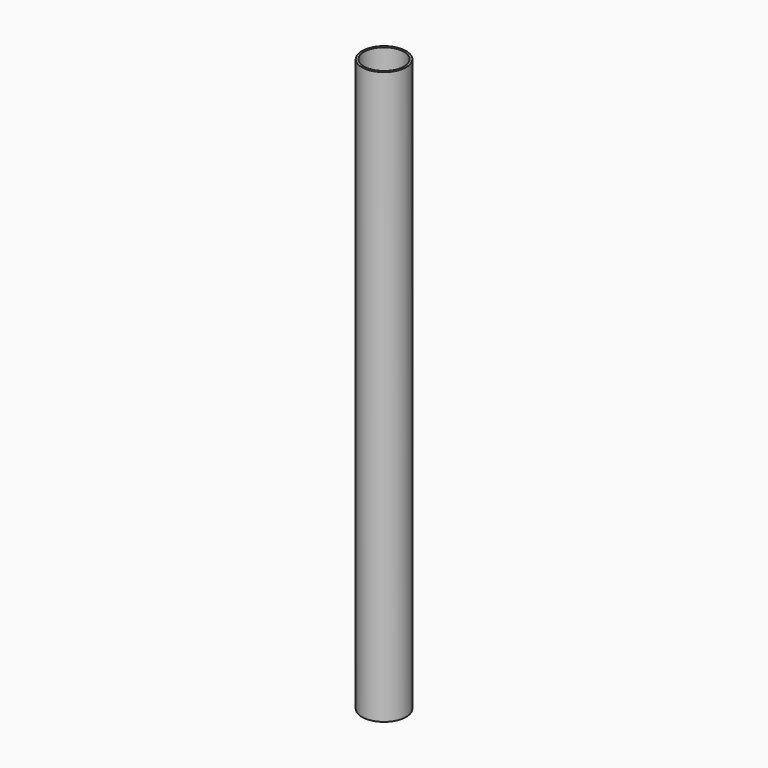
from build123d import *

# Parameters (mm, degrees)
SKETCH_R     = 4.25
PAD_DEPTH    = 110
SKETCH001_R  = 3.85
POCKET_DEPTH = 110


with BuildPart() as part:
    # Sketch → Pad (new body)
    with BuildSketch(Plane.XY):
        Circle(SKETCH_R)
    extrude(amount=PAD_DEPTH)

    # Sketch001 (on Face3 of Pad) → Pocket (cut)
    with BuildSketch(Plane.XY.offset(110)):
        Circle(SKETCH001_R)
    extrude(amount=-POCKET_DEPTH, mode=Mode.SUBTRACT)


solid = part.part
